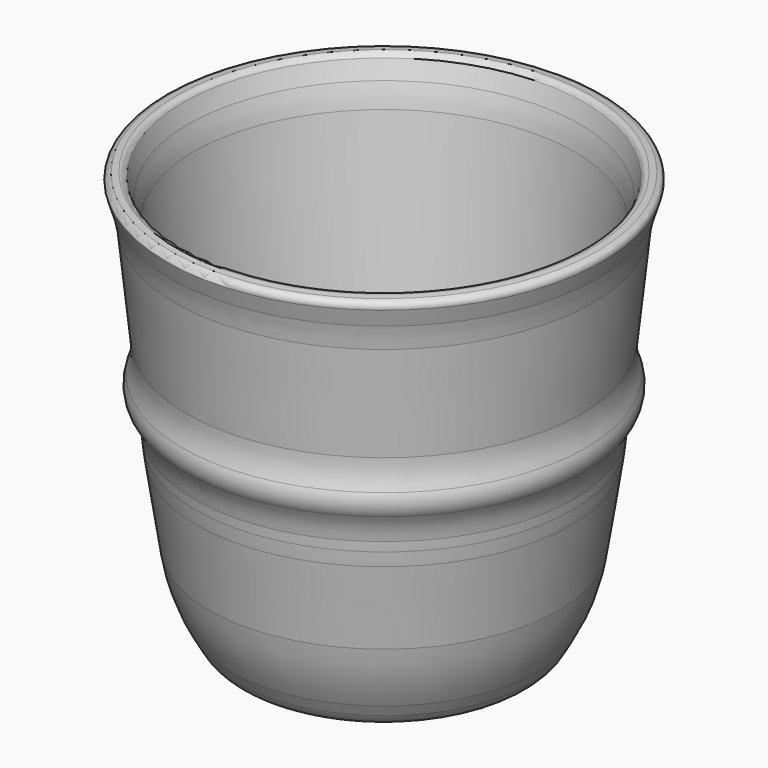
from build123d import *


with BuildPart() as part:
    # Sketch → Revolution (revolve)
    with BuildSketch(Plane.XZ):
        with BuildLine():
            ThreePointArc((-7.200699, 3.465967), (-10.089887, 3.102268), (-12.895637, 2.322876))
            Line((-18.566143, 0.292625), (-12.895637, 2.322876))
            ThreePointArc((-24.600537, 2.532943), (-21.991787, 0.312613), (-18.566143, 0.292625))
            Line((-24.600537, 2.532943), (-25.749726, 4.558757))
            ThreePointArc((-29.309821, 14.817792), (-27.997825, 9.525851), (-25.749726, 4.558757))
            Line((-29.309821, 14.817792), (-31.338566, 28.059323))
            ThreePointArc((-31.641365, 30.405079), (-31.503838, 29.23041), (-31.338566, 28.059323))
            Line((-31.641365, 30.405079), (-31.810675, 32.01595))
            ThreePointArc((-31.810675, 32.01595), (-32.36209, 34.399432), (-33.475728, 36.577702))
            ThreePointArc((-33.869659, 40.325702), (-34.141749, 38.402402), (-33.475728, 36.577702))
            ThreePointArc((-33.869659, 40.325702), (-33.233244, 42.687909), (-33.189433, 45.133953))
            Line((-33.189433, 45.133953), (-34.969204, 62.067344))
            ThreePointArc((-34.969204, 62.067344), (-35.272004, 64.017126), (-35.765457, 65.927582))
            Line((-35.765457, 65.927582), (-36.633867, 68.714025))
            ThreePointArc((-35.783686, 70.006087), (-36.514533, 69.561245), (-36.633867, 68.714025))
            Line((-35.783686, 70.006087), (-34.769469, 70.112685))
            ThreePointArc((-33.710231, 69.415704), (-34.115261, 69.953539), (-34.769469, 70.112685))
            Line((-32.812942, 66.536599), (-33.710231, 69.415704))
            ThreePointArc((-32.016689, 62.676361), (-32.319489, 64.626143), (-32.812942, 66.536599))
            Line((-28.665219, 30.789252), (-32.016689, 62.676361))
            ThreePointArc((-28.665219, 30.789252), (-28.527692, 29.614583), (-28.362419, 28.443496))
            Line((-26.353754, 15.333021), (-28.362419, 28.443496))
            ThreePointArc((-26.353754, 15.333021), (-22.982759, 9.259823), (-16.469095, 6.847456))
            Line((0, 6.847456), (-16.469095, 6.847456))
            Line((0, 6.847456), (0, 3.843339))
            Line((0, 3.843339), (-7.200699, 3.465967))
        make_face()
    revolve(axis=Axis((0, 0, 0), (0, 0, 1)))


solid = part.part
